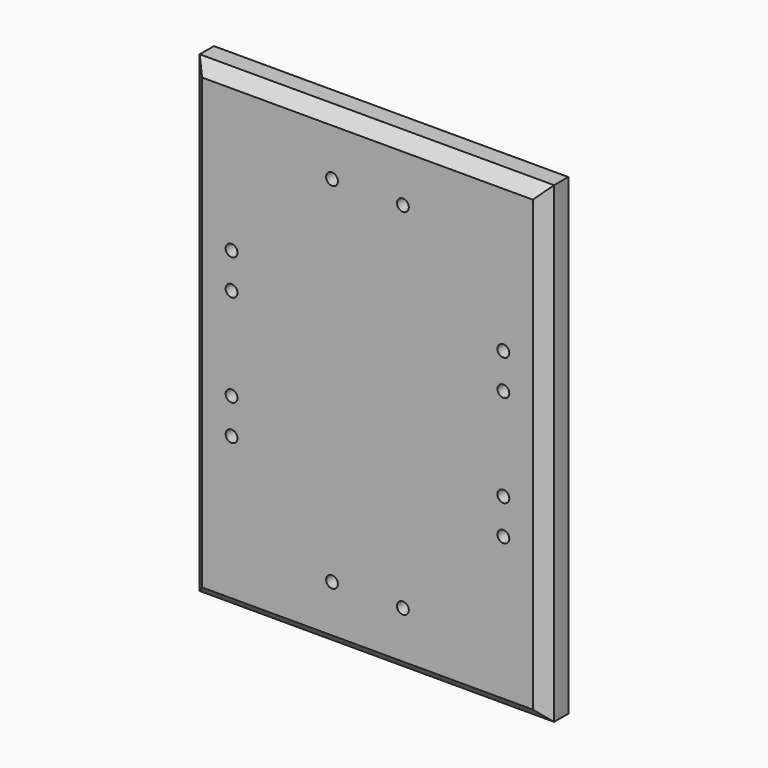
from build123d import *

# Parameters (mm, degrees)
F0_W     = 38.1
F0_H     = 50.8
F1_DEPTH = 3.175
F2_SIZE  = 1.27
F4_D     = 1.27


with BuildPart() as f1:
    # F0 (on Front) → F1 (new body)
    with BuildSketch(Plane.XZ):
        Rectangle(F0_W, F0_H)
    extrude(amount=F1_DEPTH)

    # F2
    f2_edges = [f1.edges().sort_by_distance(p)[0] for p in [
        (19.05, -3.175, 0),
        (0, -3.175, 25.4),
        (-19.05, -3.175, 0),
        (0, -3.175, -25.4),
    ]]
    chamfer(f2_edges, length=F2_SIZE)

    # F4 (through all)
    with Locations(Plane.XZ.offset(3.175)):
        with Locations((-14.610798, 8.786894), (3.81, -19.063698), (14.610798, -4.976894), (-14.610798, 4.976894), (3.81, 19.063698), (14.610798, -8.786894), (-3.81, 19.063698), (-14.610798, -8.786894), (14.610798, 4.976894), (14.610798, 8.786894), (-14.610798, -4.976894), (-3.81, -19.063698)):
            Hole(F4_D / 2)


solid = f1.part
